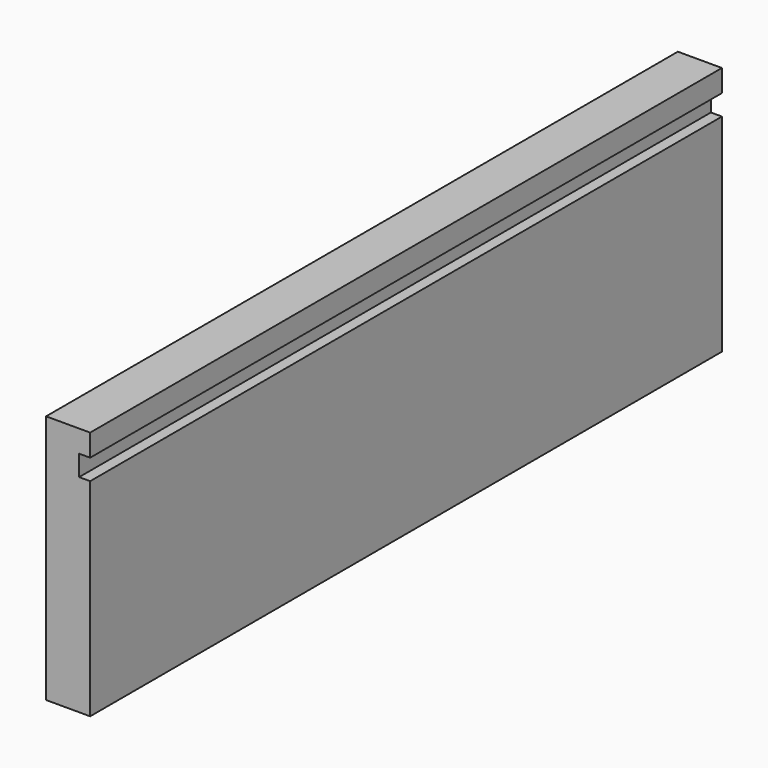
from build123d import *

# Parameters (mm, degrees)
F0_W     = 215
F0_H     = 68
F1_DEPTH = 12
F2_W     = 3
F2_H     = 5.623123
F3_DEPTH = 300


with BuildPart() as f1:
    # F0 (on Right) → F1 (new body)
    with BuildSketch(Plane.YZ):
        Rectangle(F0_W, F0_H)
    extrude(amount=F1_DEPTH)

    # F2 (on face) → F3 (cut)
    with BuildSketch(Plane(origin=(0, 107.5, 0), x_dir=(-1, 0, 0), z_dir=(0, 1, 0))):
        with Locations((-10.5, 25.16836)):
            Rectangle(F2_W, F2_H)
    extrude(amount=-F3_DEPTH, mode=Mode.SUBTRACT)


solid = f1.part
